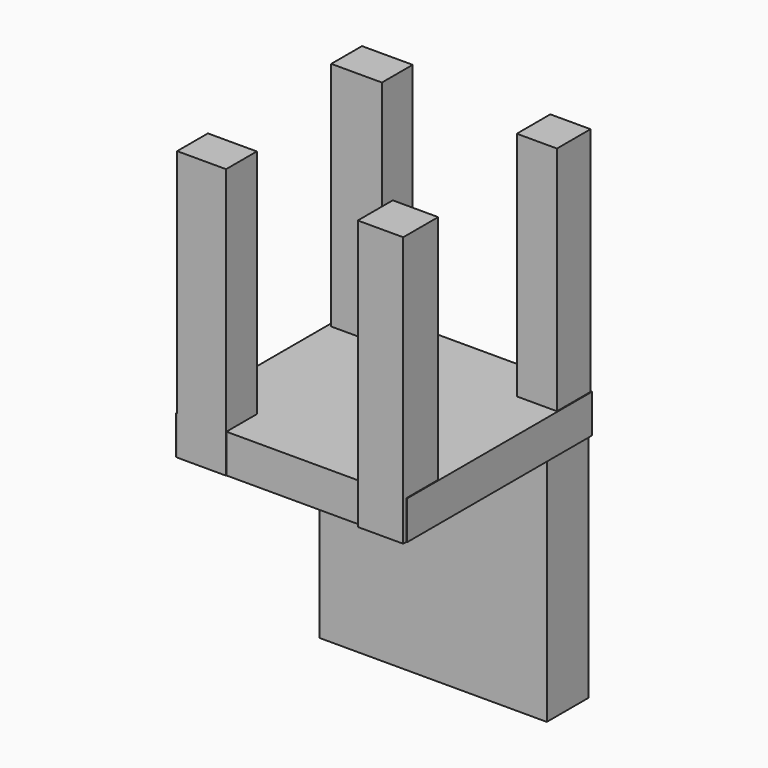
from build123d import *

# Parameters (mm, degrees)
F0_W     = 38.1
F0_H     = 38.1
F1_DEPTH = 6.35
F2_W     = 37.414748
F2_H     = 8.634172
F3_DEPTH = 38.1
F4_W     = 8.058558
F4_H     = 6.331727
F4_W_2   = 7.482949
F4_H_2   = 7.195144
F4_W_3   = 8.346364
F4_W_4   = 6.619532
F4_H_3   = 6.907337
F5_DEPTH = 44.45


with BuildPart() as f1:
    # F0 (on Top) → F1 (new body)
    with BuildSketch(Plane.XY):
        with Locations((2.229119, -0.015891)):
            Rectangle(F0_W, F0_H)
    extrude(amount=F1_DEPTH)

    # F2 (on Top) → F3 (join)
    with BuildSketch(Plane.XY):
        with Locations((2.158543, 14.53419)):
            Rectangle(F2_W, F2_H)
    extrude(amount=-F3_DEPTH)

    # F4 (on Top) → F5 (join)
    with BuildSketch(Plane.XY):
        with Locations((-12.51955, -15.973219)):
            Rectangle(F4_W, F4_H)
        with Locations((17.412247, -16.117122)):
            Rectangle(F4_W_2, F4_H_2)
        with Locations((-12.087842, 15.397609)):
            Rectangle(F4_W_3, F4_H)
        with Locations((17.843956, 15.397607)):
            Rectangle(F4_W_4, F4_H_3)
    extrude(amount=F5_DEPTH)


solid = f1.part
